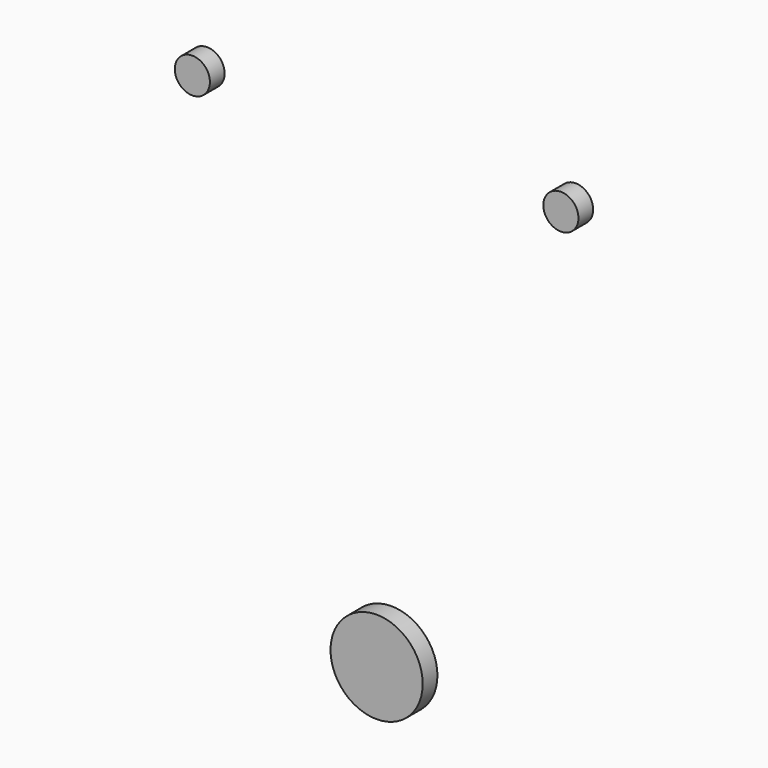
from build123d import *

# Parameters (mm, degrees)
F0_R          = 25
F0_R_2        = 9.525
F1_DEPTH      = 5
F1_DEPTH_BACK = 5


with BuildPart() as f1:
    # F0 (on Front) → F1 (new body, two sides)
    with BuildSketch(Plane.XZ) as f1_sk:
        Circle(F0_R)
        with Locations((-100, 250)):
            Circle(F0_R_2)
        with Locations((100, 250)):
            Circle(F0_R_2)
    extrude(amount=F1_DEPTH)
    extrude(f1_sk.sketch, amount=-F1_DEPTH_BACK)


solid = f1.part
